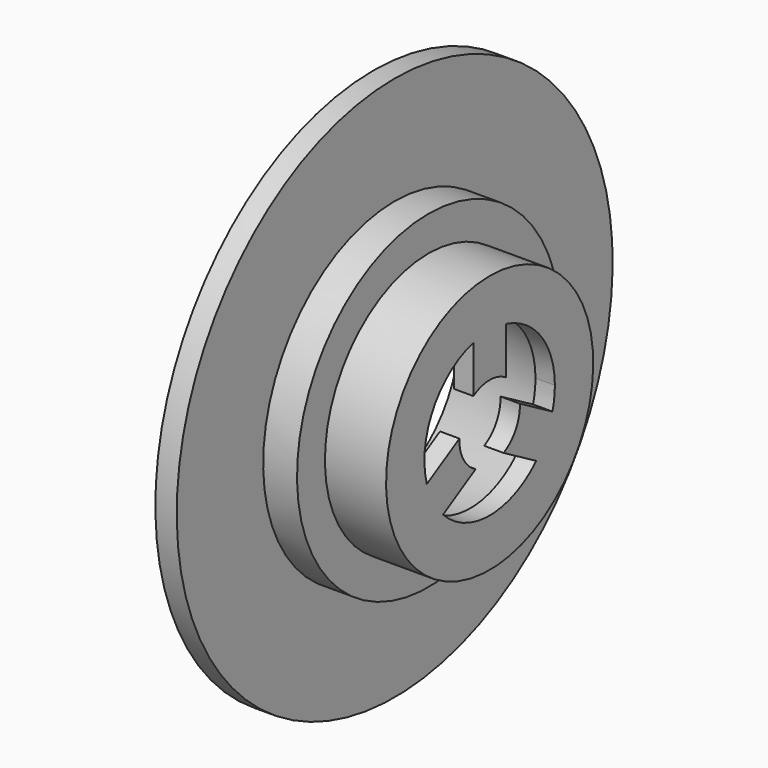
from build123d import *

# Parameters (mm, degrees)
F3_DEPTH = 40.25522


with BuildPart() as f1:
    # F0 (on Front) → F1 (revolve)
    with BuildSketch(Plane.XZ):
        Polygon((7.40243, 94.270296), (0, 94.270296), (0, 37.326403), (33.540241, 30.936901), (33.540241, 13.084832), (40.25422, 13.084832), (40.25422, 44.803802), (19.108238, 44.803802), (19.108238, 56.887221), (7.40243, 56.887221), align=None)
    revolve(axis=Axis((-91.157697, 0, 0), (-1, 0, 0)))

    # F2 (on face) → F3 (cut, through all)
    with BuildSketch(Plane.YZ.offset(40.25422)):
        with BuildLine():
            Line((-7.020366, 11.042069), (-7.020366, 27.327204))
            ThreePointArc((-7.020366, 27.327204), (-24.434529, 14.107282), (-27.176236, -7.583787))
            Line((-27.176236, -7.583787), (-13.072895, 0.558781))
            ThreePointArc((-13.072895, 0.558781), (-11.331797, 6.542416), (-7.020366, 11.042069))
        make_face()
        with BuildLine():
            Line((-6.052529, -11.600849), (-20.15587, -19.743417))
            ThreePointArc((-20.15587, -19.743417), (0, -28.214564), (20.15587, -19.743417))
            Line((20.15587, -19.743417), (6.052529, -11.600849))
            ThreePointArc((6.052529, -11.600849), (0, -13.084832), (-6.052529, -11.600849))
        make_face()
        with BuildLine():
            ThreePointArc((28.214564, 0), (22.295046, 17.291401), (7.020366, 27.327204))
            Line((7.020366, 27.327204), (7.020366, 11.042069))
            ThreePointArc((7.020366, 11.042069), (11.331797, 6.542416), (13.072895, 0.558781))
            Line((13.072895, 0.558781), (27.176236, -7.583787))
            ThreePointArc((27.176236, -7.583787), (27.953777, -3.827269), (28.214564, 0))
        make_face()
    extrude(amount=-F3_DEPTH, mode=Mode.SUBTRACT)


solid = f1.part
